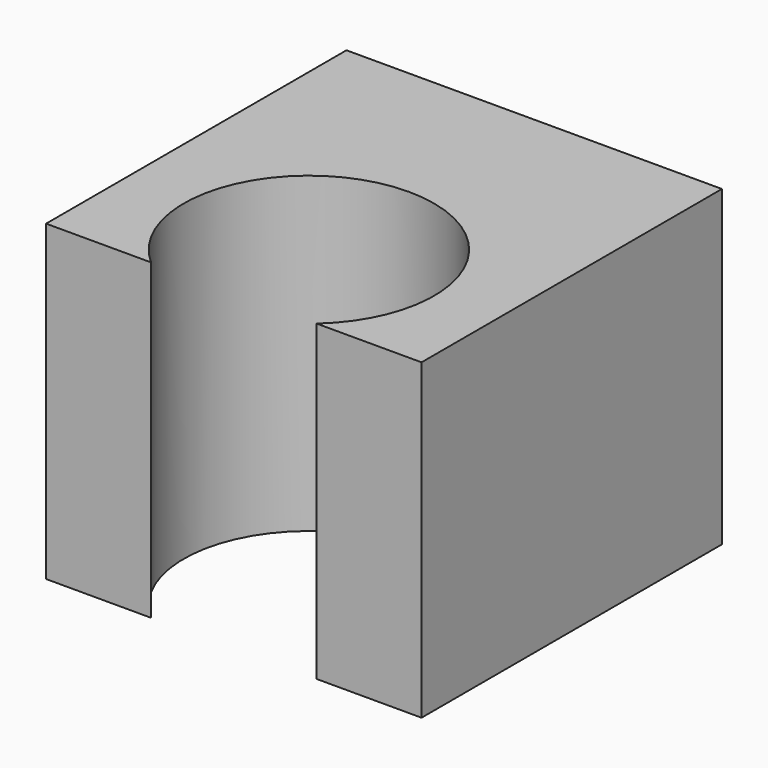
from build123d import *

# Parameters (mm, degrees)
F0_W     = 15.24
F0_H     = 15.24
F1_DEPTH = 12.7
F3_DEPTH = 12.7


with BuildPart() as f1:
    # F0 (on Top) → F1 (new body)
    with BuildSketch(Plane.XY):
        with Locations((-2.96415, -8.030525)):
            Rectangle(F0_W, F0_H)
    extrude(amount=F1_DEPTH)

    # F2 (on face) → F3 (cut)
    with BuildSketch(Plane.XY.offset(12.7)):
        with BuildLine():
            Line((-6.32371, -15.650525), (0.39541, -15.650525))
            ThreePointArc((0.39541, -15.650525), (-2.96415, -6.760045), (-6.32371, -15.650525))
        make_face()
    extrude(amount=-F3_DEPTH, mode=Mode.SUBTRACT)


solid = f1.part
